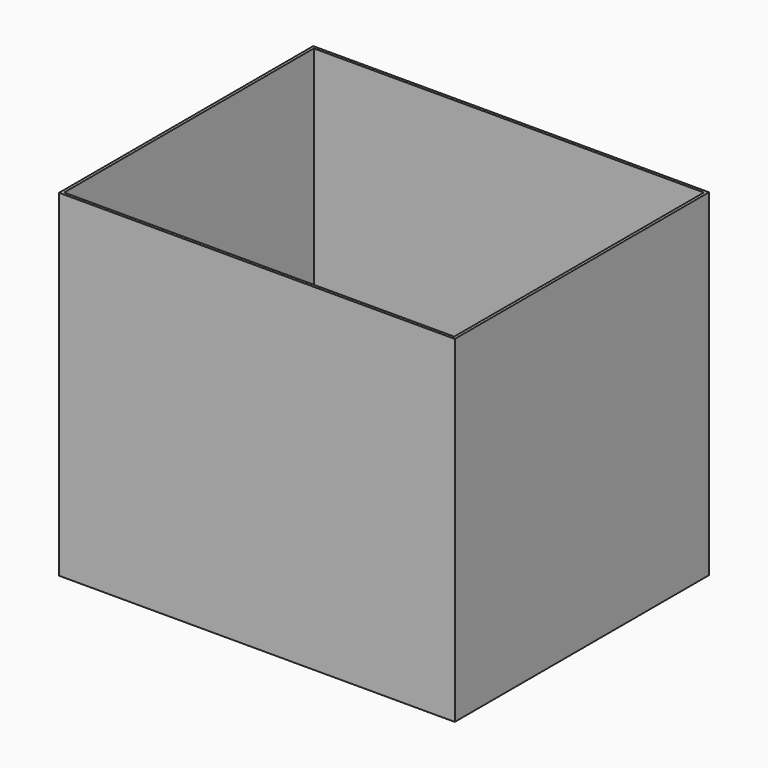
from build123d import *

# Parameters (mm, degrees)
F0_W     = 710
F0_H     = 570
F0_W_2   = 700
F0_H_2   = 560
F1_DEPTH = 605
F2_W     = 700
F2_H     = 560
F3_DEPTH = 600


with BuildPart() as f1:
    # F0 (on Top) → F1 (new body)
    with BuildSketch(Plane.XY):
        Rectangle(F0_W, F0_H)
        Rectangle(F0_W_2, F0_H_2, mode=Mode.SUBTRACT)
        Rectangle(F0_W_2, F0_H_2)
    extrude(amount=F1_DEPTH)

    # F2 (on face) → F3 (cut)
    with BuildSketch(Plane.XY.offset(605)):
        Rectangle(F2_W, F2_H)
    extrude(amount=-F3_DEPTH, mode=Mode.SUBTRACT)


solid = f1.part
